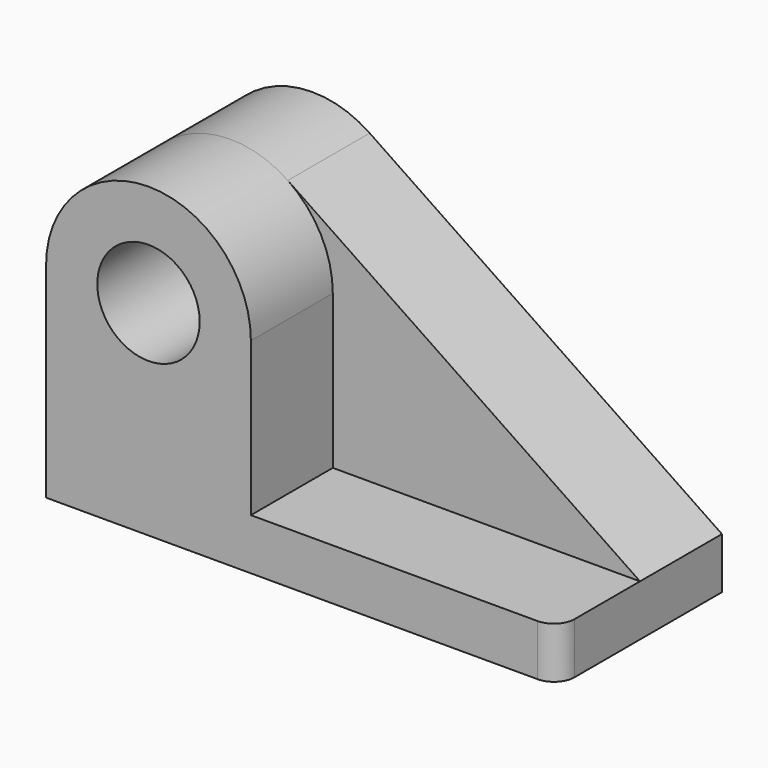
from build123d import *

# Parameters (mm, degrees)
F0_R     = 12.7
F1_DEPTH = 25.4
F2_R     = 12.7
F3_DEPTH = 25.4
F4_DEPTH = 25.4
F5_R     = 5.08


with BuildPart() as f1:
    # F0 (on Front) → F1 (new body)
    with BuildSketch(Plane.XZ):
        with BuildLine():
            Line((64.7399425507, 12.7), (-22.6221843212, 71.8343283417))
            ThreePointArc((-22.6221843212, 71.8343283417), (-48.766316781, 73.2365993129), (-62.2600574493, 50.8))
            Line((-62.2600574493, 50.8), (-62.2600574493, 0))
            Line((-62.2600574493, 0), (64.7399425507, 0))
            Line((64.7399425507, 0), (64.7399425507, 12.7))
        make_face()
        with Locations((-36.8600574493, 50.8)):
            Circle(F0_R, mode=Mode.SUBTRACT)
    extrude(amount=F1_DEPTH)

    # F2 (on face) → F3 (join)
    with BuildSketch(Plane.XZ.offset(25.4)):
        with BuildLine():
            Line((64.7399425507, 0), (64.7399425507, 12.7))
            Line((64.7399425507, 12.7), (-11.4600574493, 12.7))
            Line((-11.4600574493, 12.7), (-11.4600574493, 50.8))
            ThreePointArc((-11.4600574493, 50.8), (-36.8600574493, 76.2), (-62.2600574493, 50.8))
            Line((-62.2600574493, 50.8), (-62.2600574493, 12.7))
            Line((-62.2600574493, 12.7), (-62.2600574493, 0))
            Line((-62.2600574493, 0), (64.7399425507, 0))
        make_face()
        with Locations((-36.8600574493, 50.8)):
            Circle(F2_R, mode=Mode.SUBTRACT)
    extrude(amount=F3_DEPTH)

    # F2 (on face) → F4 (join)
    with BuildSketch(Plane.XZ.offset(25.4)):
        with BuildLine():
            Line((64.7399425507, 0), (64.7399425507, 12.7))
            Line((64.7399425507, 12.7), (-11.4600574493, 12.7))
            Line((-11.4600574493, 12.7), (-11.4600574493, 50.8))
            ThreePointArc((-11.4600574493, 50.8), (-14.4234581364, 62.7062593317), (-22.6221843212, 71.8343283417))
            ThreePointArc((-22.6221843212, 71.8343283417), (-48.766316781, 73.2365993129), (-62.2600574493, 50.8))
            Line((-62.2600574493, 50.8), (-62.2600574493, 12.7))
            Line((-62.2600574493, 12.7), (-62.2600574493, 0))
            Line((-62.2600574493, 0), (64.7399425507, 0))
        make_face()
        with Locations((-36.8600574493, 50.8)):
            Circle(F2_R, mode=Mode.SUBTRACT)
    extrude(amount=F4_DEPTH)

    # F5
    f5_edges = [f1.edges().sort_by_distance(p)[0] for p in [
        (64.739943, -50.8, 6.35),
    ]]
    fillet(f5_edges, radius=F5_R)


solid = f1.part
